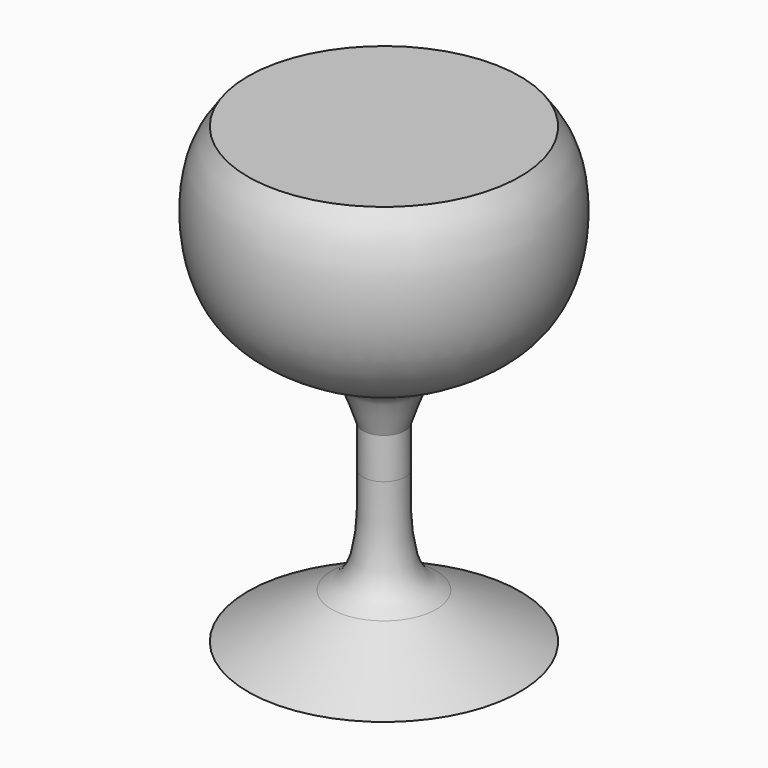
from build123d import *


with BuildPart() as f1:
    # F0 (on Front) → F1 (revolve)
    with BuildSketch(Plane.XZ):
        with BuildLine():
            Line((-76.2, 0), (0, 0))
            Line((0, 0), (0, 254))
            Line((0, 254), (-76.2, 254))
            add(Edge.make_bspline(
                [(-76.2, 254), (-80.5047434557, 248.2878554287), (-91.9038741087, 233.1618710471), (-90.1826067949, 157.5468911922), (-22.7499125713, 136.0551282658), (-17.0749751236, 123.456392668), (-13.6319693352, 113.2184482862), (-11.7898331955, 107.7407673001)],
                knots=[0, 0, 0, 0, 0.1734941114, 0.4594192578, 0.7360342818, 0.858768524, 1, 1, 1, 1], degree=3))
            Line((-11.7898331955, 107.7407673001), (-11.7898331955, 84.9269926548))
            add(Edge.make_bspline(
                [(-29.2820632458, 25.4), (-24.0985022668, 28.3949877746), (-11.4567465044, 35.6992143695), (-11.8260754889, 77.3167847288), (-11.7982395068, 83.161823542), (-11.7898331955, 84.9269926548)],
                knots=[0, 0, 0, 0, 0.3266558678, 0.7966538286, 1, 1, 1, 1], degree=3))
            Line((-29.2820632458, 25.4), (-76.2, 0))
        make_face()
    revolve(axis=Axis((0, 0, 127), (0, 0, 1)))


solid = f1.part
